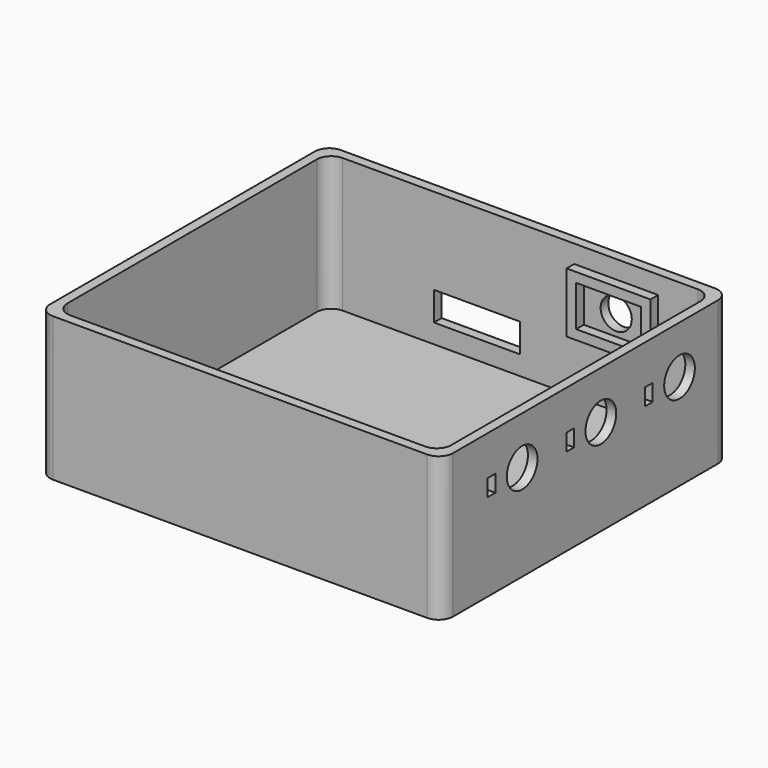
from build123d import *

# Parameters (mm, degrees)
F0_W     = 80
F0_H     = 71
F1_DEPTH = 2
F0_W_2   = 84
F0_H_2   = 75
F2_DEPTH = 30
F3_R     = 4
F4_DEPTH = 25
F5_W     = 18
F5_H     = 6
F6_DEPTH = 25
F5_W_2   = 17.5
F5_H_2   = 12.5
F5_W_3   = 13.5
F5_H_3   = 8.5
F7_DEPTH = 2
F5_R     = 3.25
F8_DEPTH = 25
F3_W     = 2
F3_H     = 3.5
F9_DEPTH = 25
F10_R    = 3
F11_R    = 3


with BuildPart() as f1:
    # F0 (on Top) → F1 (new body)
    with BuildSketch(Plane.XY):
        Rectangle(F0_W, F0_H)
    extrude(amount=F1_DEPTH)

    # F0 (on Top) → F2 (join)
    with BuildSketch(Plane.XY):
        Rectangle(F0_W_2, F0_H_2)
        Rectangle(F0_W, F0_H, mode=Mode.SUBTRACT)
    extrude(amount=F2_DEPTH)

    # F3 (on face) → F4 (cut)
    with BuildSketch(Plane(origin=(40, 0, 0), x_dir=(0, -1, 0), z_dir=(-1, 0, 0))):
        with Locations((-24.5, 20)):
            Circle(F3_R)
        with Locations((-4, 20)):
            Circle(F3_R)
        with Locations((16.5, 20)):
            Circle(F3_R)
    extrude(amount=-F4_DEPTH, mode=Mode.SUBTRACT)

    # F5 (on face) → F6 (cut)
    with BuildSketch(Plane.XZ.offset(-35.5)):
        with Locations((-9, 9)):
            Rectangle(F5_W, F5_H)
    extrude(amount=-F6_DEPTH, mode=Mode.SUBTRACT)

    # F5 (on face) → F7 (join)
    with BuildSketch(Plane.XZ.offset(-35.5)):
        with Locations((20, 20)):
            Rectangle(F5_W_2, F5_H_2)
        with Locations((20, 20)):
            Rectangle(F5_W_3, F5_H_3, mode=Mode.SUBTRACT)
    extrude(amount=F7_DEPTH)

    # F5 (on face) → F8 (cut)
    with BuildSketch(Plane.XZ.offset(-35.5)):
        with Locations((20, 20)):
            Circle(F5_R)
    extrude(amount=-F8_DEPTH, mode=Mode.SUBTRACT)

    # F3 (on face) → F9 (cut)
    with BuildSketch(Plane(origin=(40, 0, 0), x_dir=(0, -1, 0), z_dir=(-1, 0, 0))):
        with Locations((-16.5, 20)):
            Rectangle(F3_W, F3_H)
        with Locations((4, 20)):
            Rectangle(F3_W, F3_H)
        with Locations((24.5, 20)):
            Rectangle(F3_W, F3_H)
    extrude(amount=-F9_DEPTH, mode=Mode.SUBTRACT)

    # F10
    f10_edges = [f1.edges().sort_by_distance(p)[0] for p in [
        (40, 35.5, 16),
        (-40, 35.5, 16),
        (-40, -35.5, 16),
        (40, -35.5, 16),
    ]]
    fillet(f10_edges, radius=F10_R)

    # F11
    f11_edges = [f1.edges().sort_by_distance(p)[0] for p in [
        (42, -37.5, 15),
        (42, 37.5, 15),
        (-42, -37.5, 15),
        (-42, 37.5, 15),
    ]]
    fillet(f11_edges, radius=F11_R)


solid = f1.part
